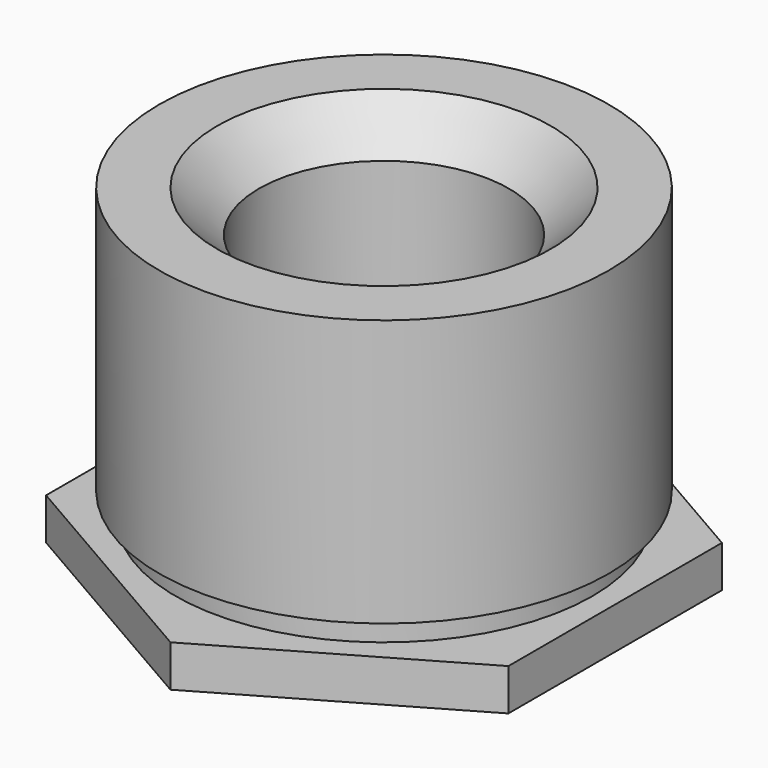
from build123d import *

# Parameters (mm, degrees)
F1_DEPTH       = 0.5
F2_R           = 2.5
F3_DEPTH       = 0.3
F4_R           = 2.695
F5_DEPTH       = 3.2
F7_D           = 3
F7_DEPTH       = 3
F7_CSINK_D     = 4
F7_CSINK_ANGLE = 90
F7_TIP         = 0.9012909285


with BuildPart() as f1:
    # F0 (on Top) → F1 (new body)
    with BuildSketch(Plane.XY):
        Polygon((-2.7712812921, -1.6), (0, -3.2), (2.7712812921, -1.6), (2.7712812921, 1.6), (0, 3.2), (-2.7712812921, 1.6), align=None)
    extrude(amount=F1_DEPTH)

    # F2 (on face) → F3 (join)
    with BuildSketch(Plane.XY.offset(0.5)):
        Circle(F2_R)
    extrude(amount=F3_DEPTH)

    # F4 (on face) → F5 (join)
    with BuildSketch(Plane.XY.offset(0.8)):
        Circle(F4_R)
    extrude(amount=F5_DEPTH)

    # F7
    with Locations(Plane.XY.offset(4)):
        with Locations((0, 0)):
            CounterSinkHole(F7_D / 2, F7_CSINK_D / 2, depth=F7_DEPTH, counter_sink_angle=F7_CSINK_ANGLE)
            with Locations((0, 0, -(F7_DEPTH + F7_TIP / 2))):  # 118° drill point
                Cone(0, F7_D / 2, F7_TIP, mode=Mode.SUBTRACT)


solid = f1.part
